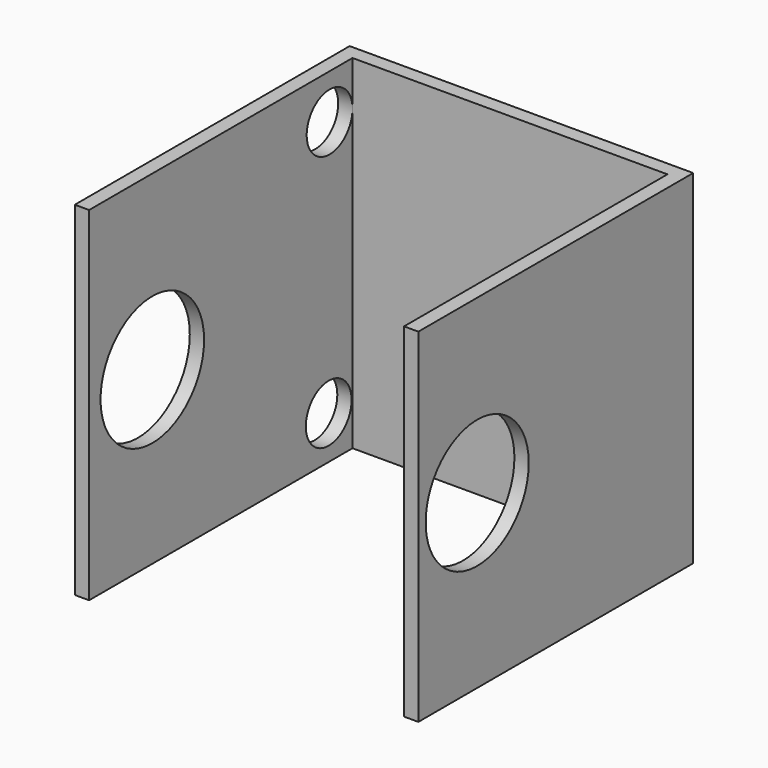
from build123d import *

# Parameters (mm, degrees)
F0_W     = 76.2
F0_H     = 76.2
F0_W_2   = 69.85
F0_H_2   = 69.85
F1_DEPTH = 76.2
F3_DEPTH = 25.4
F4_R     = 6.35
F5_DEPTH = 25.4
F4_R_2   = 14.351
F7_DEPTH = 25.4
F6_R     = 14.2875
F8_DEPTH = 25.4


with BuildPart() as f1:
    # F0 (on Top) → F1 (new body)
    with BuildSketch(Plane.XY):
        with Locations((38.1, 38.1)):
            Rectangle(F0_W, F0_H)
        with Locations((38.1, 38.1)):
            Rectangle(F0_W_2, F0_H_2, mode=Mode.SUBTRACT)
    extrude(amount=F1_DEPTH)

    # F2 (on face) → F3 (cut)
    with BuildSketch(Plane.XZ):
        Polygon((3.175, 76.2), (3.175, 14.417147), (3.175, 0), (73.025, 0), (73.025, 76.2), align=None)
    extrude(amount=-F3_DEPTH, mode=Mode.SUBTRACT)

    # F4 (on face) → F5 (cut)
    with BuildSketch(Plane.YZ.offset(3.175)):
        with Locations((66.675, 66.294)):
            Circle(F4_R)
        with Locations((66.427297, 9.525)):
            Circle(F4_R)
    extrude(amount=-F5_DEPTH, mode=Mode.SUBTRACT)

    # F4 (on face) → F7 (cut)
    with BuildSketch(Plane.YZ.offset(3.175)):
        with Locations((17.528682, 37.9095)):
            Circle(F4_R_2)
    extrude(amount=-F7_DEPTH, mode=Mode.SUBTRACT)

    # F6 (on face) → F8 (cut)
    with BuildSketch(Plane.YZ.offset(76.2)):
        with Locations((16.311424, 38.1)):
            Circle(F6_R)
    extrude(amount=-F8_DEPTH, mode=Mode.SUBTRACT)


solid = f1.part
